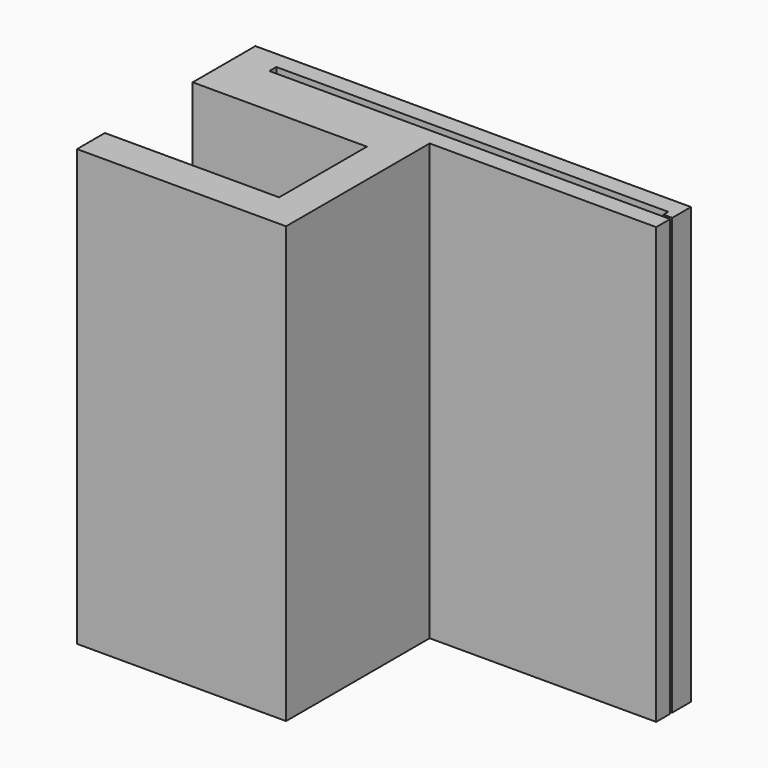
from build123d import *

# Parameters (mm, degrees)
F0_W     = 2
F0_H     = 0.5
F0_H_2   = 6.3
F0_W_2   = 0.5
F0_H_3   = 0.35
F1_DEPTH = 25


with BuildPart() as f1:
    # F0 (on Top) → F1 (new body)
    with BuildSketch(Plane.XY):
        Polygon((-10, 6.15), (-10, 5.15), (2, 5.15), (15, 5.15), (15, 6.15), (-8, 6.15), align=None)
        Polygon((2, 5.15), (-10, 5.15), (-10, 3.15), (0, 3.15), (2, 3.15), align=None)
        with Locations((-9, 6.4)):
            Rectangle(F0_W, F0_H)
        with Locations((1, 0)):
            Rectangle(F0_W, F0_H_2)
        Polygon((-10, 7.65), (-10, 6.65), (-8, 6.65), (14.5, 6.65), (15, 6.65), (15, 7.65), align=None)
        Polygon((2, -5.15), (2, -3.15), (0, -3.15), (-10, -3.15), (-10, -5.15), align=None)
        with Locations((14.75, 6.475)):
            Rectangle(F0_W_2, F0_H_3)
    extrude(amount=F1_DEPTH)


solid = f1.part
